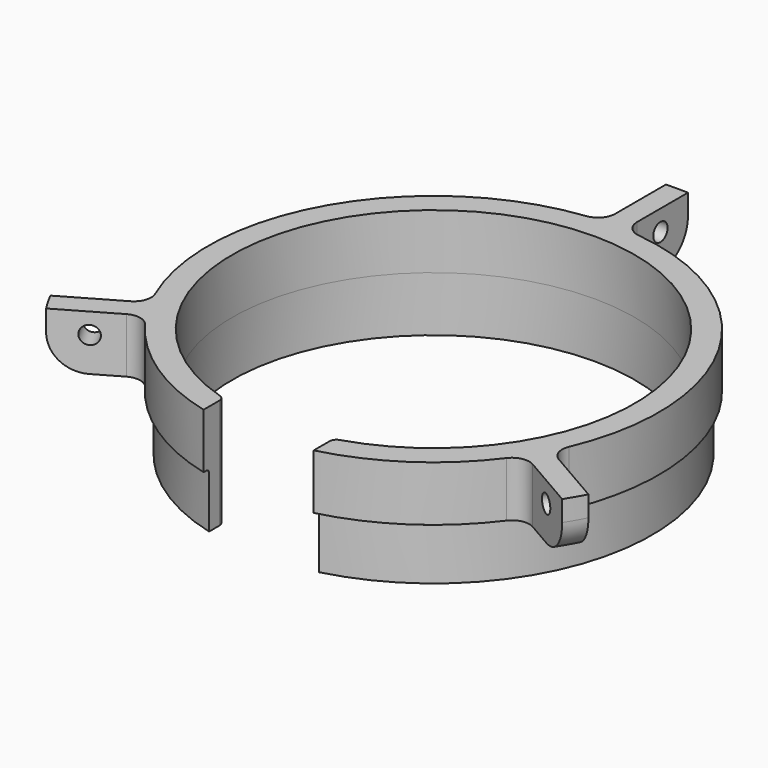
from build123d import *

# Parameters (mm, degrees)
SKETCH_R              = 88.5
SKETCH_R_2            = 58.5
PAD_DEPTH             = 16
POCKET_DEPTH          = 517.654267
POLARPATTERN_COUNT    = 3
SKETCH002_W           = 32
SKETCH002_H           = 137
POCKET001_DEPTH       = 16.001
SKETCH003_R           = 2.6
POCKET002_DEPTH       = 518.756447
POLARPATTERN001_COUNT = 3
PAD001_DEPTH          = 16
FILLET_R              = 1
FILLET001_R           = 2
FILLET002_R           = 10
FILLET003_R           = 5


with BuildPart() as part:
    # Sketch → Pad (new body)
    with BuildSketch(Plane.XY):
        Circle(SKETCH_R)
        Circle(SKETCH_R_2, mode=Mode.SUBTRACT)
    extrude(amount=PAD_DEPTH)

    # Sketch001 (on Face4 of Pad) → Pocket (cut, through all)
    with BuildSketch(Plane.XY.offset(16)):
        with BuildLine():
            ThreePointArc((58.256928, -29.939611), (56.724664, 32.75), (3.2, 65.421785))
            Line((3.2, 192.421785), (3.2, 65.421785))
            ThreePointArc((168.242154, -93.439611), (166.665196, 96.224196), (3.2, 192.421785))
            Line((58.256928, -29.939611), (168.242154, -93.439611))
        make_face()
    pocket = extrude(amount=-POCKET_DEPTH, mode=Mode.SUBTRACT)

    # PolarPattern: Pocket ×3 about axis
    polarpattern_axis = Axis((0, 0, 16), (0, 0, 1))
    for i in range(1, POLARPATTERN_COUNT):
        add(pocket.rotate(polarpattern_axis, i * 360 / POLARPATTERN_COUNT), mode=Mode.SUBTRACT)

    # Sketch002 (on Face4 of PolarPattern) → Pocket001 (cut, through all)
    with BuildSketch(Plane.XY.offset(16)):
        with Locations((0, -68.5)):
            Rectangle(SKETCH002_W, SKETCH002_H)
    extrude(amount=-POCKET001_DEPTH, mode=Mode.SUBTRACT)

    # Sketch003 (on Face5 of Pocket001) → Pocket002 (cut, through all)
    with BuildSketch(Plane.YZ.offset(3.2)):
        with Locations((78.442128, 10)):
            Circle(SKETCH003_R)
    pocket002 = extrude(amount=-POCKET002_DEPTH, mode=Mode.SUBTRACT)

    # PolarPattern001: Pocket002 ×3 about axis
    polarpattern001_axis = Axis((0, 0, 0), (0, 0, 1))
    for i in range(1, POLARPATTERN001_COUNT):
        add(pocket002.rotate(polarpattern001_axis, i * 360 / POLARPATTERN001_COUNT), mode=Mode.SUBTRACT)

    # Sketch004 (on Face2 of PolarPattern001) → Pad001 (join)
    with BuildSketch(Plane(origin=(0, 0, 0), x_dir=(1, 0, 0), z_dir=(0, 0, -1))):
        with BuildLine():
            ThreePointArc((-16, 56.269441), (0, -58.5), (16, 56.269441))
            Line((16, 61.515746), (16, 56.269441))
            ThreePointArc((-16, 61.515746), (0, -63.562465), (16, 61.515746))
            Line((-16, 61.515746), (-16, 56.269441))
        make_face()
    extrude(amount=PAD001_DEPTH)

    # Fillet
    fillet_edges = [part.edges().sort_by_distance(p)[0] for p in [
        (0, 63.562465, 0),
    ]]
    fillet(fillet_edges, radius=FILLET_R)

    # Fillet001
    fillet001_edges = [part.edges().sort_by_distance(p)[0] for p in [
        (-16, -56.269441, -8),
        (-16, -56.269441, 8),
        (16, -56.269441, -8),
        (16, -56.269441, 8),
    ]]
    fillet(fillet001_edges, radius=FILLET001_R)

    # Fillet002
    fillet002_edges = [part.edges().sort_by_distance(p)[0] for p in [
        (-76.643248, -44.25, 0),
        (76.643248, -44.25, 0),
        (0, 88.5, 0),
    ]]
    fillet(fillet002_edges, radius=FILLET002_R)

    # Fillet003
    fillet003_edges = [part.edges().sort_by_distance(p)[0] for p in [
        (58.256928, -29.939611, 8),
        (55.056928, -35.482174, 8),
        (-55.056928, -35.482174, 8),
        (-58.256928, -29.939611, 8),
        (-3.2, 65.421785, 8),
        (3.2, 65.421785, 8),
    ]]
    fillet(fillet003_edges, radius=FILLET003_R)


solid = part.part
